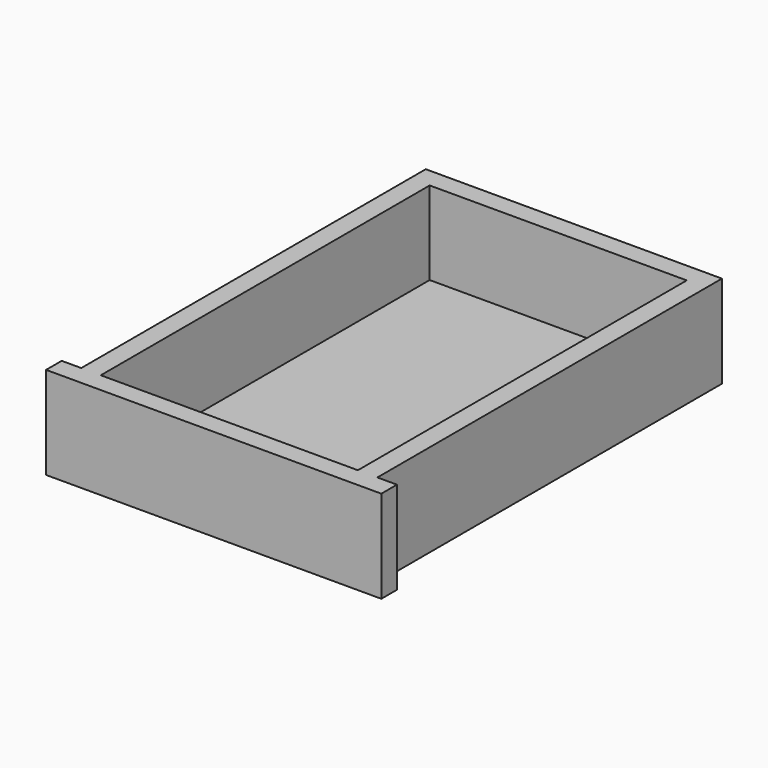
from build123d import *

# Parameters (mm, degrees)
F0_W     = 250
F0_H     = 399.7749028206
F1_DEPTH = 90
F3_W     = 250
F3_H     = 413
F4_DEPTH = 4


with BuildPart() as f1:
    # F0 (on Top) → F1 (new body)
    with BuildSketch(Plane.XY):
        Polygon((-288, 0), (0, 0), (19, 0), (19, 15.7749028206), (19, 19), (0, 19), (0, 418.7749028206), (0, 437.7749028206), (-288, 437.7749028206), (-288, 19), (-307, 19), (-307, 0), align=None)
        with Locations((-144, 218.8874514103)):
            Rectangle(F0_W, F0_H, mode=Mode.SUBTRACT)
    extrude(amount=-F1_DEPTH)

    # F3 (on offset) → F4 (join)
    with BuildSketch(Plane.XY.offset(-85)):
        with Locations((-144, 225.5)):
            Rectangle(F3_W, F3_H)
    extrude(amount=F4_DEPTH)


solid = f1.part
